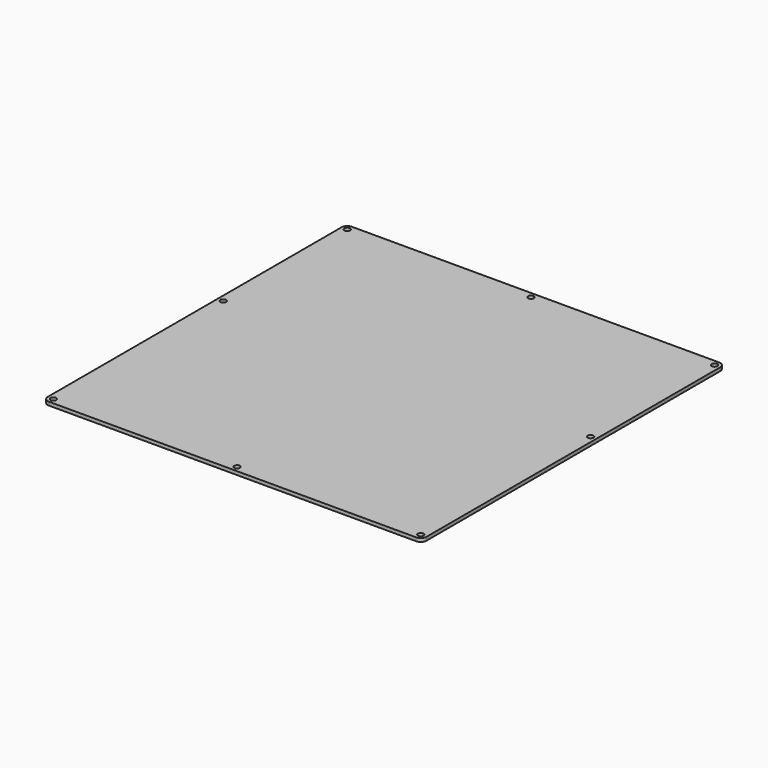
from build123d import *

# Parameters (mm, degrees)
SKETCH_R  = 2.5
PAD_DEPTH = 3


with BuildPart() as part:
    # Sketch → Pad (new body)
    with BuildSketch(Plane.XY):
        with BuildLine():
            Line((-160, 165), (160, 165))
            ThreePointArc((165, 160), (163.535534, 163.535534), (160, 165))
            Line((165, 160), (165, -160))
            ThreePointArc((160, -165), (163.535534, -163.535534), (165, -160))
            Line((160, -165), (-160, -165))
            ThreePointArc((-165, -160), (-163.535534, -163.535534), (-160, -165))
            Line((-165, -160), (-165, 160))
            ThreePointArc((-160, 165), (-163.535534, 163.535534), (-165, 160))
        make_face()
        with Locations((-160, 160)):
            Circle(SKETCH_R, mode=Mode.SUBTRACT)
        with Locations((160, 160)):
            Circle(SKETCH_R, mode=Mode.SUBTRACT)
        with Locations((-160, -160)):
            Circle(SKETCH_R, mode=Mode.SUBTRACT)
        with Locations((160, -160)):
            Circle(SKETCH_R, mode=Mode.SUBTRACT)
        with Locations((0, -160)):
            Circle(SKETCH_R, mode=Mode.SUBTRACT)
        with Locations((0, 160)):
            Circle(SKETCH_R, mode=Mode.SUBTRACT)
        with Locations((-160, 25)):
            Circle(SKETCH_R, mode=Mode.SUBTRACT)
        with Locations((160, 25)):
            Circle(SKETCH_R, mode=Mode.SUBTRACT)
    extrude(amount=PAD_DEPTH)


solid = part.part
